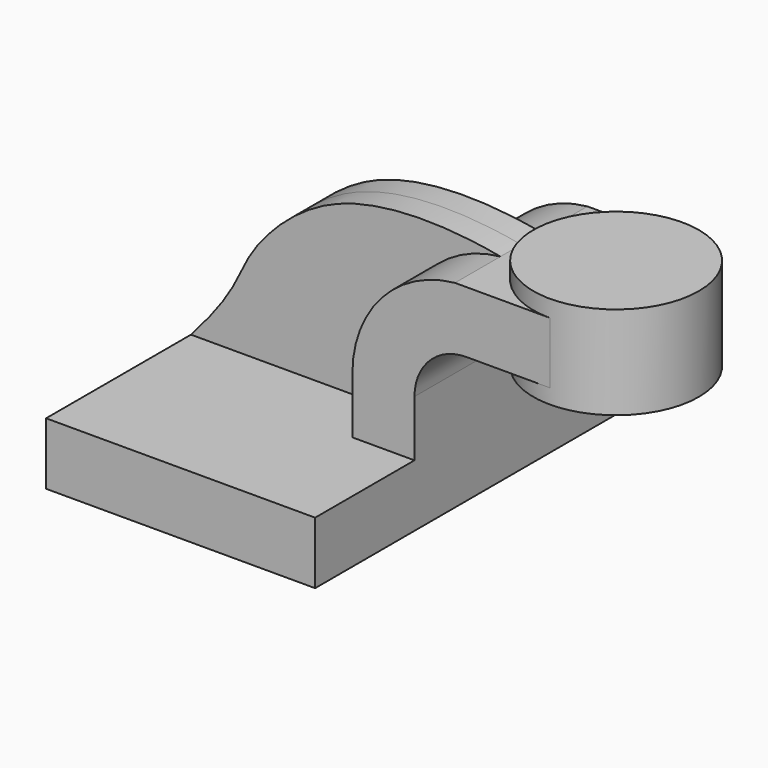
from build123d import *

# Parameters (mm, degrees)
F1_DEPTH = 63.5
F2_DEPTH = 25.4
F3_DEPTH = 7.9375


with BuildPart() as f1:
    # F0 (on Front) → F1 (new body, symmetric)
    with BuildSketch(Plane.XZ):
        Polygon((-12.4777524548, 9.525), (-75.9777524548, 9.525), (-75.9777524548, -9.525), (6.5722475452, -9.525), (6.5722475452, 9.525), (-5.7358437016, 9.525), (-9.173008174, 9.525), align=None)
    extrude(amount=F1_DEPTH, both=True)

    # F0 (on Front) → F2 (join, symmetric)
    with BuildSketch(Plane.XZ):
        with BuildLine():
            Line((-12.4777524548, 26.7462), (-12.4777524548, 9.525))
            Line((-12.4777524548, 9.525), (-9.173008174, 9.525))
            Line((-9.173008174, 9.525), (-5.7358437016, 9.525))
            Line((-5.7358437016, 9.525), (6.5722475452, 9.525))
            Line((6.5722475452, 9.525), (6.5722475452, 26.7462))
            ThreePointArc((6.5722475452, 26.7462), (11.2219273939, 37.9715201513), (22.4472475452, 42.6212))
            Line((22.4472475452, 42.6212), (22.7120646, 42.6212))
            Line((22.7120646, 42.6212), (22.7120646, 61.4994115756))
            Line((22.7120646, 61.4994115756), (18.9874917473, 61.4994115756))
            ThreePointArc((18.9874917473, 61.4994115756), (-3.4427852497, 50.1868021015), (-12.4777524548, 26.7462))
        make_face()
        Polygon((48.1120646, 61.4994115756), (22.7120646, 61.4994115756), (22.7120646, 42.6212), (48.1120646, 42.6212), (48.1120646, 52.3875), align=None)
    extrude(amount=F2_DEPTH, both=True)

    # F0 (on Front) → F3 (join, symmetric)
    with BuildSketch(Plane.XZ):
        with BuildLine():
            add(Edge.make_bspline(
                [(-75.9777524548, 9.525), (-61.7776212541, 25.4792540105), (-62.3238106257, 34.5479376307), (-33.1677066113, 65.9094634104), (2.56170726, 64.6208110814), (18.9874917473, 61.4994115756)],
                knots=[0, 0, 0, 0, 0.3071399643, 0.6175559309, 1, 1, 1, 1], degree=3))
            Line((-75.9777524548, 9.525), (-12.4777524548, 9.525))
            Line((-12.4777524548, 9.525), (-12.4777524548, 26.7462))
            ThreePointArc((-12.4777524548, 26.7462), (-3.4427852497, 50.1868021015), (18.9874917473, 61.4994115756))
        make_face()
    extrude(amount=F3_DEPTH, both=True)

    # F0 (on Front) → F4 (revolve)
    with BuildSketch(Plane.XZ):
        Polygon((48.1120646, 66.675), (48.1120646, 61.4994115756), (48.1120646, 52.3875), (48.1120646, 42.6212), (48.1120646, 38.1), (73.5120646, 38.1), (73.5120646, 66.675), align=None)
    revolve(axis=Axis((48.1120646, 0, 59.53125), (0, 0, 1)))


solid = f1.part
